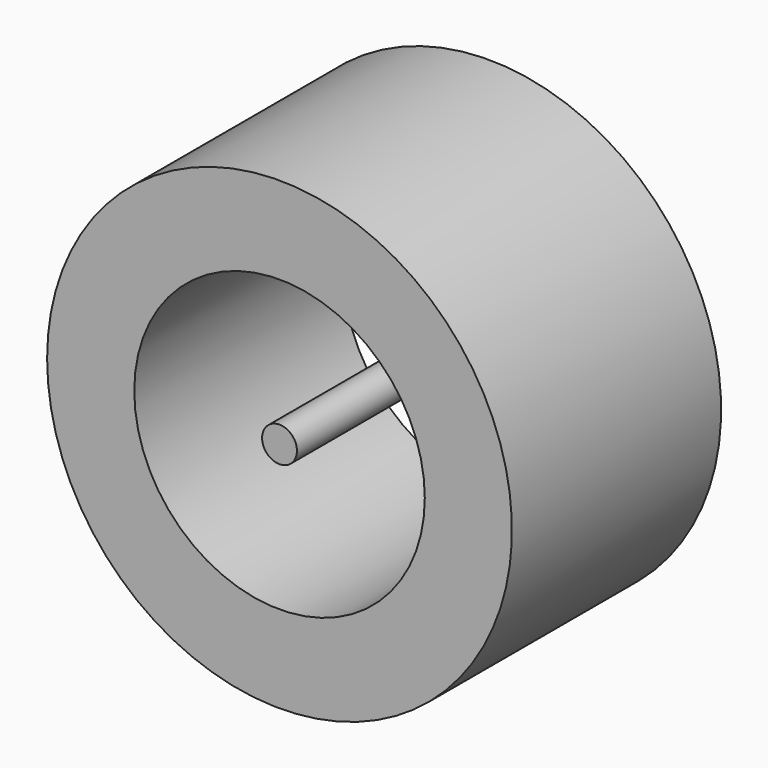
from build123d import *

# Parameters (mm, degrees)
CYLINDER027_R             = 3
CYLINDER027_DEPTH         = 35
CYLINDER027_ROLL_ANGLE    = 90
CYLINDER026_R             = 25
CYLINDER026_DEPTH         = 60
CYLINDER026_ROLL_ANGLE    = 90
CYLINDER025_R             = 40
CYLINDER025_DEPTH         = 45
CYLINDER025_ROLL_ANGLE    = 90
FUSION005_PLACEMENT_ANGLE = 180


with BuildPart() as cilindro010:
    # Cylinder027 → Cylinder027 (new body)
    with BuildSketch(Plane.XY):
        Circle(CYLINDER027_R)
    extrude(amount=CYLINDER027_DEPTH)


with BuildPart() as cilindro010_1:
    # Cylinder027 roll: moved
    add(cilindro010.part.rotate(Axis((0, 0, 0), (1, 0, 0)), CYLINDER027_ROLL_ANGLE))


with BuildPart() as cilindro010_2:
    # Cylinder027 placement: moved
    add(cilindro010_1.part.moved(Location((0, -214, 0))))


with BuildPart() as cilindro009:
    # Cylinder026 → Cylinder026 (new body)
    with BuildSketch(Plane.XY):
        Circle(CYLINDER026_R)
    extrude(amount=CYLINDER026_DEPTH)


with BuildPart() as cilindro009_1:
    # Cylinder026 roll: moved
    add(cilindro009.part.rotate(Axis((0, 0, 0), (1, 0, 0)), CYLINDER026_ROLL_ANGLE))


with BuildPart() as cilindro009_2:
    # Cylinder026 placement: moved
    add(cilindro009_1.part.moved(Location((0, -207, 0))))


with BuildPart() as rueda_izquierda:
    # Cylinder025 → Cylinder025 (new body)
    with BuildSketch(Plane.XY):
        Circle(CYLINDER025_R)
    extrude(amount=CYLINDER025_DEPTH)


with BuildPart() as rueda_izquierda_1:
    # Cylinder025 roll: moved
    add(rueda_izquierda.part.rotate(Axis((0, 0, 0), (1, 0, 0)), CYLINDER025_ROLL_ANGLE))


with BuildPart() as rueda_izquierda_2:
    # Cylinder025 placement: moved
    add(rueda_izquierda_1.part.moved(Location((0, -214, 0))))

    # Cut005: cut Cilindro009
    add(cilindro009_2.part, mode=Mode.SUBTRACT)

    # Fusion005: union Cilindro010
    add(cilindro010_2.part)


with BuildPart() as rueda_izquierda_3:
    # Fusion005 placement: moved
    add(rueda_izquierda_2.part.rotate(Axis((0, 0, 0), (0, 0, 1)), FUSION005_PLACEMENT_ANGLE))


solid = rueda_izquierda_3.part
